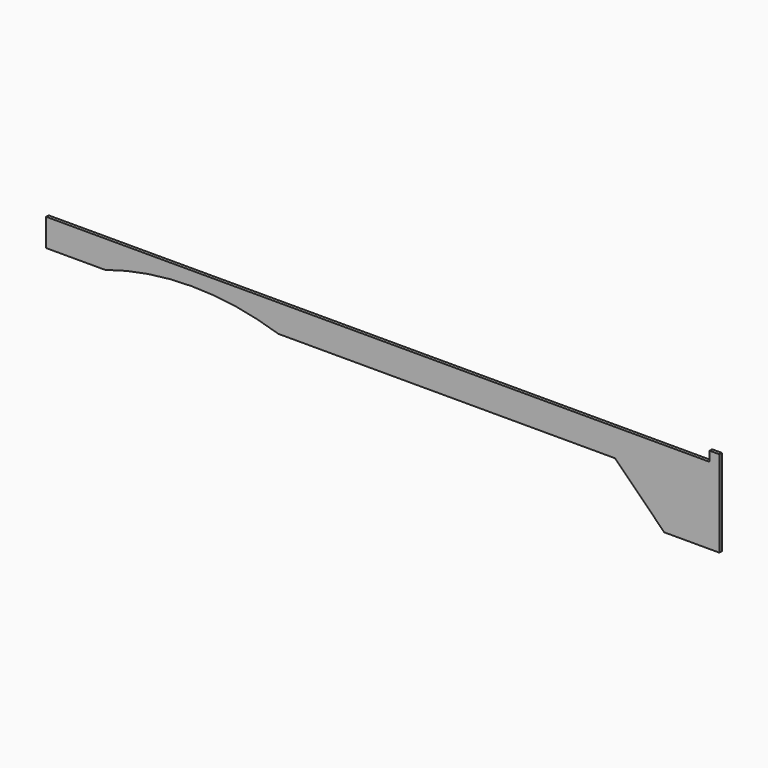
from build123d import *

# Parameters (mm, degrees)
F0_W     = 25
F0_H     = 25
F1_DEPTH = 8


with BuildPart() as f1:
    # F0 (on Front) → F1 (new body)
    with BuildSketch(Plane.XZ):
        with BuildLine():
            Line((1685, 0), (0, 0))
            Line((0, 0), (0, -70))
            Line((0, -70), (150, -70))
            ThreePointArc((150, -70), (370, -35), (590, -70))
            Line((590, -70), (1445, -70))
            Line((1445, -70), (1710, -70))
            Line((1710, -70), (1710, 0))
            Line((1710, 0), (1685, 0))
        make_face()
        Polygon((1710, -195), (1710, -70), (1445, -70), (1570, -195), align=None)
        with Locations((1697.5, 12.5)):
            Rectangle(F0_W, F0_H)
    extrude(amount=F1_DEPTH)


solid = f1.part
